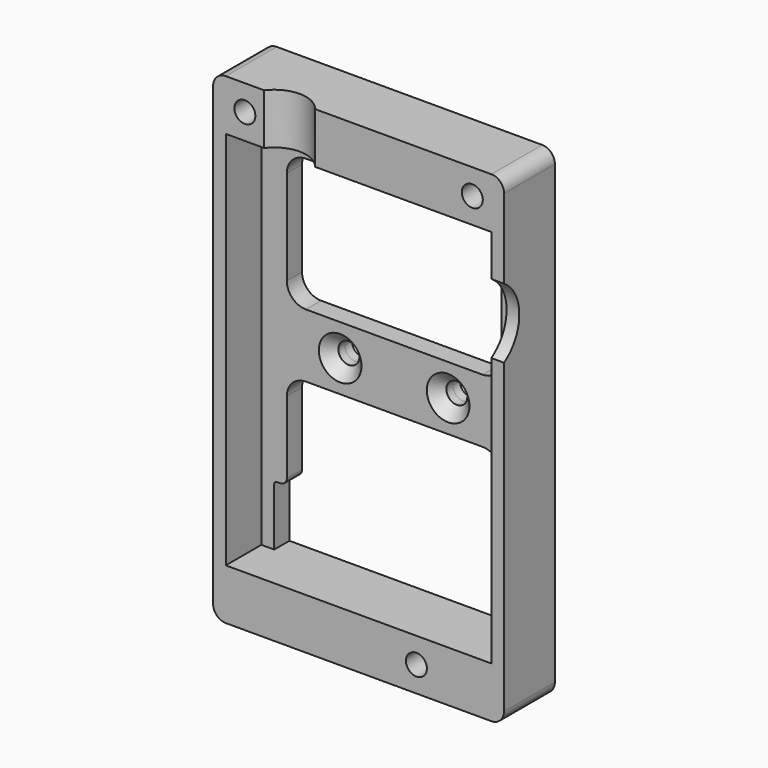
from build123d import *

# Parameters (mm, degrees)
F1_DEPTH        = 10
F0_R            = 2.9
F2_DEPTH        = 3
F3_R            = 6.5
F4_DEPTH        = 4
F5_R            = 5
F6_DEPTH        = 12
F7_DEPTH        = 2
F8_D            = 3.3
F8_DEPTH        = 13.8
F8_START        = 2
F8_TIP          = 0.9914200214
F9_DEPTH        = 1.4
F10_D           = 3.3
F10_DEPTH       = 8
F10_TIP         = 0.9914200214
F12_D           = 3.3
F12_DEPTH       = 8
F12_CSINK_D     = 6.72
F12_CSINK_ANGLE = 90
F12_TIP         = 0.9914200214


with BuildPart() as f1:
    # F0 (on Front) → F1 (new body)
    with BuildSketch(Plane.XZ):
        with BuildLine():
            Line((20.9, 37.9), (17.9, 37.9))
            Line((17.9, 37.9), (-17.9, 37.9))
            Line((-17.9, 37.9), (-20.9, 37.9))
            ThreePointArc((-20.9, 37.9), (-22.3142135624, 37.3142135624), (-22.9, 35.9))
            Line((-22.9, 35.9), (-22.9, 32.9))
            Line((-22.9, 32.9), (-22.9, -35.9))
            ThreePointArc((-22.9, -35.9), (-22.3142135624, -37.3142135624), (-20.9, -37.9))
            Line((-20.9, -37.9), (20.9, -37.9))
            ThreePointArc((20.9, -37.9), (22.3142135624, -37.3142135624), (22.9, -35.9))
            Line((22.9, -35.9), (22.9, 32.9))
            Line((22.9, 32.9), (22.9, 35.9))
            ThreePointArc((22.9, 35.9), (22.3142135624, 37.3142135624), (20.9, 37.9))
        make_face()
        Polygon((7.4256842194, -31), (10.7743157806, -31), (12.4486315613, -33.9), (10.7743157806, -36.8), (7.4256842194, -36.8), (5.7513684387, -33.9), align=None, mode=Mode.SUBTRACT)
        Polygon((-16.2256842194, 36.8), (-14.5513684387, 33.9), (-16.2256842194, 31), (-19.5743157806, 31), (-21.2486315613, 33.9), (-19.5743157806, 36.8), align=None, mode=Mode.SUBTRACT)
        Polygon((20.9, 29.9), (20.9, -29.9), (18.3, -29.9), (-18.8811943151, -29.9), (-20.9, -29.9), (-20.9, 29.9), align=None, mode=Mode.SUBTRACT)
        Polygon((21.2486315613, 33.9), (19.5743157806, 31), (16.2256842194, 31), (14.5513684387, 33.9), (16.2256842194, 36.8), (19.5743157806, 36.8), align=None, mode=Mode.SUBTRACT)
        Polygon((-16.2256842194, 31), (-14.5513684387, 33.9), (-16.2256842194, 36.8), (-19.5743157806, 36.8), (-21.2486315613, 33.9), (-19.5743157806, 31), align=None)
        Polygon((16.2256842194, 31), (19.5743157806, 31), (21.2486315613, 33.9), (19.5743157806, 36.8), (16.2256842194, 36.8), (14.5513684387, 33.9), align=None)
        Polygon((12.4486315613, -33.9), (10.7743157806, -31), (7.4256842194, -31), (5.7513684387, -33.9), (7.4256842194, -36.8), (10.7743157806, -36.8), align=None)
    extrude(amount=F1_DEPTH)

    # F0 (on Front) → F2 (join)
    with BuildSketch(Plane.XZ):
        with BuildLine():
            Line((18.3, -29.9), (20.9, -29.9))
            Line((20.9, -29.9), (20.9, 29.9))
            Line((20.9, 29.9), (-20.9, 29.9))
            Line((-20.9, 29.9), (-20.9, -29.9))
            Line((-20.9, -29.9), (-18.8811943151, -29.9))
            Line((-18.8811943151, -29.9), (-18.8811943151, -20.7887917079))
            ThreePointArc((-18.8811943151, -20.7887917079), (-18.7640370276, -20.5059489954), (-18.4811943151, -20.3887917079))
            Line((-18.4811943151, -20.3887917079), (-17.9, -20.3887917079))
            ThreePointArc((-17.9, -20.3887917079), (-17.1928932188, -20.0958984891), (-16.9, -19.3887917079))
            Line((-16.9, -19.3887917079), (-16.9, -8))
            ThreePointArc((-16.9, -8), (-16.0213203436, -5.8786796564), (-13.9, -5))
            Line((-13.9, -5), (13.9, -5))
            ThreePointArc((13.9, -5), (16.0213203436, -5.8786796564), (16.9, -8))
            Line((16.9, -8), (16.9, -19.3887917079))
            ThreePointArc((16.9, -19.3887917079), (17.1928932188, -20.0958984891), (17.9, -20.3887917079))
            ThreePointArc((17.9, -20.3887917079), (18.1828427125, -20.5059489954), (18.3, -20.7887917079))
            Line((18.3, -20.7887917079), (18.3, -29.9))
        make_face()
        with Locations((-8.5, 0)):
            Circle(F0_R, mode=Mode.SUBTRACT)
        with Locations((8.5, 0)):
            Circle(F0_R, mode=Mode.SUBTRACT)
        with BuildLine():
            ThreePointArc((-16.9, 22.9), (-16.0213203436, 25.0213203436), (-13.9, 25.9))
            Line((-13.9, 25.9), (13.9, 25.9))
            ThreePointArc((13.9, 25.9), (16.0213203436, 25.0213203436), (16.9, 22.9))
            Line((16.9, 22.9), (16.9, 8))
            ThreePointArc((16.9, 8), (16.0213203436, 5.8786796564), (13.9, 5))
            Line((13.9, 5), (-13.9, 5))
            ThreePointArc((-13.9, 5), (-16.0213203436, 5.8786796564), (-16.9, 8))
            Line((-16.9, 8), (-16.9, 22.9))
        make_face(mode=Mode.SUBTRACT)
        with Locations((-8.5, 0)):
            Circle(F0_R)
        with Locations((8.5, 0)):
            Circle(F0_R)
    extrude(amount=F2_DEPTH)

    # F3 (on face) → F4 (cut)
    with BuildSketch(Plane.YZ.offset(22.9)):
        with Locations((-13.5, 17.9)):
            Circle(F3_R)
    extrude(amount=-F4_DEPTH, mode=Mode.SUBTRACT)

    # F5 (on face) → F6 (cut)
    with BuildSketch(Plane.XY.offset(37.9)):
        with Locations((-10.8651584014, -13)):
            Circle(F5_R)
    extrude(amount=-F6_DEPTH, mode=Mode.SUBTRACT)

    # F0 (on Front) → F7 (cut)
    with BuildSketch(Plane.XZ):
        Polygon((-16.2256842194, 31), (-14.5513684387, 33.9), (-16.2256842194, 36.8), (-19.5743157806, 36.8), (-21.2486315613, 33.9), (-19.5743157806, 31), align=None)
        Polygon((16.2256842194, 31), (19.5743157806, 31), (21.2486315613, 33.9), (19.5743157806, 36.8), (16.2256842194, 36.8), (14.5513684387, 33.9), align=None)
        Polygon((12.4486315613, -33.9), (10.7743157806, -31), (7.4256842194, -31), (5.7513684387, -33.9), (7.4256842194, -36.8), (10.7743157806, -36.8), align=None)
    extrude(amount=F7_DEPTH, mode=Mode.SUBTRACT)

    # F8
    # its depths count from where the whole tool has entered the part; down to there all is cleared
    with Locations(Plane(origin=(0, 0, 0), x_dir=(1, 0, 0), z_dir=(0, 1, 0)).offset(-F8_START)):
        with Locations((-17.9, -33.9), (17.9, -33.9), (9.1, 33.9)):
            Hole(F8_D / 2, depth=F8_DEPTH)
            with Locations((0, 0, -(F8_DEPTH + F8_TIP / 2))):  # 118° drill point
                Cone(0, F8_D / 2, F8_TIP, mode=Mode.SUBTRACT)

    # F0 (on Front) → F9 (join)
    with BuildSketch(Plane.XZ):
        with Locations((8.5, 0)):
            Circle(F0_R)
        with Locations((-8.5, 0)):
            Circle(F0_R)
    extrude(amount=-F9_DEPTH)

    # F10 (one way)
    with BuildSketch(Plane.XZ):
        with Locations((-8.5, 0), (8.5, 0)):
            Circle(F10_D / 2)
    extrude(amount=-F10_DEPTH, mode=Mode.SUBTRACT)
    with Locations(Plane.XZ):
        with Locations((-8.5, 0), (8.5, 0)):
            with Locations((0, 0, -(F10_DEPTH + F10_TIP / 2))):  # 118° drill point
                Cone(0, F10_D / 2, F10_TIP, mode=Mode.SUBTRACT)

    # F12
    with Locations(Plane.XZ.offset(3)):
        with Locations((-8.5, 0), (8.5, 0)):
            CounterSinkHole(F12_D / 2, F12_CSINK_D / 2, depth=F12_DEPTH, counter_sink_angle=F12_CSINK_ANGLE)
            with Locations((0, 0, -(F12_DEPTH + F12_TIP / 2))):  # 118° drill point
                Cone(0, F12_D / 2, F12_TIP, mode=Mode.SUBTRACT)


solid = f1.part
